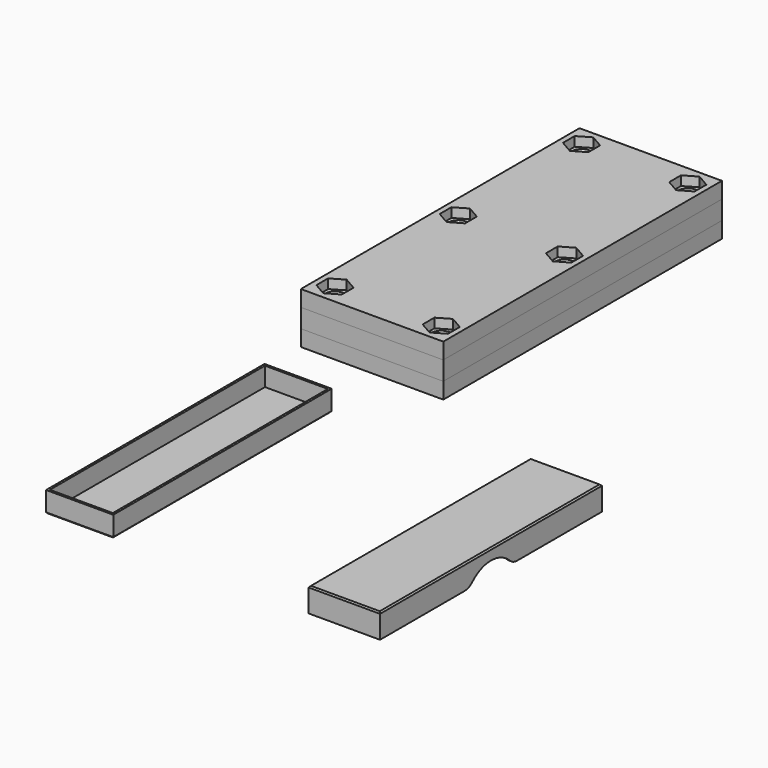
from build123d import *

# Parameters (mm, degrees)
PAD_DEPTH                = 0.8
SKETCH001_W              = 25
SKETCH001_H              = 101.6
SKETCH001_W_2            = 23.4
SKETCH001_H_2            = 100
PAD001_DEPTH             = 7
CHAMFER001_SIZE          = 0.5
SKETCH002_W              = 26.6
SKETCH002_H              = 103.2
SKETCH002_W_2            = 25
SKETCH002_H_2            = 101.6
PAD002_DEPTH             = 8.2
SKETCH003_W              = 26.6
SKETCH003_H              = 103.2
PAD003_DEPTH             = 0.8
POCKET_DEPTH             = 30
FILLET_R                 = 5
CHAMFER_SIZE             = 0.5
SKETCH005_W              = 53
SKETCH005_H              = 129.6
SKETCH005_W_2            = 25
SKETCH005_H_2            = 101.6
PAD004_DEPTH             = 7
SKETCH013_R              = 2.6
POCKET005_DEPTH          = 10
SKETCH006_W              = 53
SKETCH006_H              = 129.6
SKETCH006_W_2            = 23.4
SKETCH006_H_2            = 100
PAD005_DEPTH             = 6
SKETCH007_W              = 23.4
SKETCH007_H              = 100
PAD006_DEPTH             = 13
POCKET001_DEPTH          = 3.5
SKETCH012_R              = 2.6
POCKET004_DEPTH          = 10
CHAMFER003_1_SIZE2       = 1
CHAMFER003_1_SIZE        = 2
CHAMFER003_2_SIZE2       = 1
CHAMFER003_2_SIZE        = 2
CHAMFER003_3_SIZE2       = 1
CHAMFER003_3_SIZE        = 2
CHAMFER003_4_SIZE2       = 1
CHAMFER003_4_SIZE        = 2
CHAMFER003_5_SIZE2       = 1
CHAMFER003_5_SIZE        = 2
CHAMFER003_6_SIZE2       = 1
CHAMFER003_6_SIZE        = 2
SHAPEBINDER004_FACE1_W   = 129.6
SHAPEBINDER004_FACE1_H   = 53
SHAPEBINDER004_FACE1_W_2 = 101.6
SHAPEBINDER004_FACE1_H_2 = 25
PAD007_DEPTH             = 6
SKETCH008_W              = 25
SKETCH008_H              = 101.6
PAD008_DEPTH             = 5.2
CHAMFER002_SIZE          = 0.5
SKETCH010_R              = 4.9
POCKET002_DEPTH          = 3.5
SKETCH014_R              = 2.6
POCKET006_DEPTH          = 100


with BuildPart() as bottom_box_template:
    # Sketch → Pad (new body)
    with BuildSketch(Plane.XY):
        Polygon((0, 0), (25, 0), (25, 100), (25, 101.6), (0, 101.6), align=None)
    extrude(amount=PAD_DEPTH)

    # Sketch001 (on Face5 of Pad) → Pad001 (join)
    with BuildSketch(Plane.XY.offset(0.8)):
        with Locations((12.5, 50.8)):
            Rectangle(SKETCH001_W, SKETCH001_H)
        with Locations((12.5, 50.8)):
            Rectangle(SKETCH001_W_2, SKETCH001_H_2, mode=Mode.SUBTRACT)
    extrude(amount=PAD001_DEPTH)

    # Chamfer001
    chamfer001_edges = [bottom_box_template.edges().sort_by_distance(p)[0] for p in [
        (12.5, 0, 0),
        (25, 50.8, 0),
        (12.5, 101.6, 0),
        (0, 50.8, 0),
    ]]
    chamfer(chamfer001_edges, length=CHAMFER001_SIZE)


with BuildPart() as box_top:
    # Sketch002 (on Face1 of ShapeBinder) → Pad002 (new body)
    with BuildSketch(Plane(origin=(0, 0, 0), x_dir=(1, 0, 0), z_dir=(0, 0, -1))):
        with Locations((12, -50.3)):
            Rectangle(SKETCH002_W, SKETCH002_H)
        with Locations((12, -50.3)):
            Rectangle(SKETCH002_W_2, SKETCH002_H_2, mode=Mode.SUBTRACT)
    extrude(amount=-PAD002_DEPTH)

    # Sketch003 (on Face4 of Pad002) → Pad003 (join)
    with BuildSketch(Plane.XY.offset(8.2)):
        with Locations((12, 50.3)):
            Rectangle(SKETCH003_W, SKETCH003_H)
    extrude(amount=PAD003_DEPTH)

    # Sketch004 (on Face10 of Pad003) → Pocket (cut)
    with BuildSketch(Plane(origin=(-1.3, 0, 0), x_dir=(0, -1, 0), z_dir=(-1, 0, 0))):
        with BuildLine():
            ThreePointArc((-40.3, 0), (-50.3, 5), (-60.3, 0))
            Line((-60.3, 0), (-40.3, 0))
        make_face()
    extrude(amount=-POCKET_DEPTH, mode=Mode.SUBTRACT)

    # Fillet
    fillet_edges = [box_top.edges().sort_by_distance(p)[0] for p in [
        (-0.9, 40.3, 0),
        (-0.9, 60.3, 0),
        (24.9, 60.3, 0),
        (24.9, 40.3, 0),
    ]]
    fillet(fillet_edges, radius=FILLET_R)

    # Chamfer
    chamfer_edges = [box_top.edges().sort_by_distance(p)[0] for p in [
        (12, -1.3, 9),
        (-1.3, 50.3, 9),
        (12, 101.9, 9),
        (25.3, 50.3, 9),
    ]]
    chamfer(chamfer_edges, length=CHAMFER_SIZE)


with BuildPart() as box_top_1:
    # Body001 placement: moved
    add(box_top.part.moved(Location((100, 0, 0))))


with BuildPart() as middle_mold_bottom:
    # Sketch005 (on Face1 of ShapeBinder001) → Pad004 (new body)
    with BuildSketch(Plane.XY.offset(7.8)):
        with Locations((12.5, 50.8)):
            Rectangle(SKETCH005_W, SKETCH005_H)
        with Locations((12.5, 50.8)):
            Rectangle(SKETCH005_W_2, SKETCH005_H_2, mode=Mode.SUBTRACT)
    extrude(amount=-PAD004_DEPTH)

    # Sketch013 (on Face2 of Pad004) → Pocket005 (cut)
    with BuildSketch(Plane.XY.offset(7.8)):
        with Locations((-7.275, 108.14404)):
            Circle(SKETCH013_R)
        with Locations((32.275, 108.14404)):
            Circle(SKETCH013_R)
        with Locations((32.275, 50.8)):
            Circle(SKETCH013_R)
        with Locations((-7.275, 50.8)):
            Circle(SKETCH013_R)
        with Locations((-7.275, -6.54404)):
            Circle(SKETCH013_R)
        with Locations((32.275, -6.54404)):
            Circle(SKETCH013_R)
    extrude(amount=-POCKET005_DEPTH, mode=Mode.SUBTRACT)


with BuildPart() as middle_mold_bottom_1:
    # Body002 placement: moved
    add(middle_mold_bottom.part.moved(Location((0, 150, 0))))


with BuildPart() as top_mold_bottom:
    # Sketch006 (on Face1 of ShapeBinder003) → Pad005 (new body)
    with BuildSketch(Plane.XY.offset(7.8)):
        with Locations((12.5, 50.8)):
            Rectangle(SKETCH006_W, SKETCH006_H)
        with Locations((12.5, 50.8)):
            Rectangle(SKETCH006_W_2, SKETCH006_H_2, mode=Mode.SUBTRACT)
    extrude(amount=PAD005_DEPTH)

    # Sketch007 (on Face10 of Pad005) → Pad006 (join)
    with BuildSketch(Plane.XY.offset(13.8)):
        with Locations((12.5, 50.8)):
            Rectangle(SKETCH007_W, SKETCH007_H)
    extrude(amount=-PAD006_DEPTH)

    # Sketch009 (on Face11 of Pad006) → Pocket001 (cut)
    with BuildSketch(Plane.XY.offset(13.8)):
        Polygon((32.275, 113.6), (27.55, 110.87202), (27.55, 105.41606), (32.275, 102.68808), (37, 105.41606), (37, 110.87202), align=None)
        Polygon((-7.275, 113.6), (-12, 110.87202), (-12, 105.41606), (-7.275, 102.68808), (-2.55, 105.41606), (-2.55, 110.87202), align=None)
        Polygon((32.275, 56.25596), (27.55, 53.52798), (27.55, 48.07202), (32.275, 45.34404), (37, 48.07202), (37, 53.52798), align=None)
        Polygon((-7.275, 56.25596), (-12, 53.52798), (-12, 48.07202), (-7.275, 45.34404), (-2.55, 48.07202), (-2.55, 53.52798), align=None)
        Polygon((-7.275, -1.08808), (-12, -3.81606), (-12, -9.27202), (-7.275, -12), (-2.55, -9.27202), (-2.55, -3.81606), align=None)
        Polygon((32.275, -1.08808), (27.55, -3.81606), (27.55, -9.27202), (32.275, -12), (37, -9.27202), (37, -3.81606), align=None)
    extrude(amount=-POCKET001_DEPTH, mode=Mode.SUBTRACT)

    # Sketch012 (on Face5 of Pocket001) → Pocket004 (cut)
    with BuildSketch(Plane.XY.offset(13.8)):
        with Locations((-7.275, -6.54404)):
            Circle(SKETCH012_R)
        with Locations((32.275, -6.54404)):
            Circle(SKETCH012_R)
        with Locations((32.275, 50.8)):
            Circle(SKETCH012_R)
        with Locations((-7.275, 50.8)):
            Circle(SKETCH012_R)
        with Locations((-7.275, 108.14404)):
            Circle(SKETCH012_R)
        with Locations((32.275, 108.14404)):
            Circle(SKETCH012_R)
    extrude(amount=-POCKET004_DEPTH, mode=Mode.SUBTRACT)

    # Chamfer003 1
    chamfer003_1_edges = [top_mold_bottom.edges().sort_by_distance(p)[0] for p in [
        (29.675, -6.54404, 10.3),
    ]]
    chamfer003_1_side = top_mold_bottom.faces().sort_by_distance((29.675, -6.54404, 9.05))[0]
    chamfer(chamfer003_1_edges, length=CHAMFER003_1_SIZE, length2=CHAMFER003_1_SIZE2, reference=chamfer003_1_side)

    # Chamfer003 2
    chamfer003_2_edges = [top_mold_bottom.edges().sort_by_distance(p)[0] for p in [
        (-9.875, 50.8, 10.3),
    ]]
    chamfer003_2_side = top_mold_bottom.faces().sort_by_distance((-9.875, 50.8, 9.05))[0]
    chamfer(chamfer003_2_edges, length=CHAMFER003_2_SIZE, length2=CHAMFER003_2_SIZE2, reference=chamfer003_2_side)

    # Chamfer003 3
    chamfer003_3_edges = [top_mold_bottom.edges().sort_by_distance(p)[0] for p in [
        (-9.875, 108.14404, 10.3),
    ]]
    chamfer003_3_side = top_mold_bottom.faces().sort_by_distance((-9.875, 108.14404, 9.05))[0]
    chamfer(chamfer003_3_edges, length=CHAMFER003_3_SIZE, length2=CHAMFER003_3_SIZE2, reference=chamfer003_3_side)

    # Chamfer003 4
    chamfer003_4_edges = [top_mold_bottom.edges().sort_by_distance(p)[0] for p in [
        (29.675, 50.8, 10.3),
    ]]
    chamfer003_4_side = top_mold_bottom.faces().sort_by_distance((29.675, 50.8, 9.05))[0]
    chamfer(chamfer003_4_edges, length=CHAMFER003_4_SIZE, length2=CHAMFER003_4_SIZE2, reference=chamfer003_4_side)

    # Chamfer003 5
    chamfer003_5_edges = [top_mold_bottom.edges().sort_by_distance(p)[0] for p in [
        (29.675, 108.14404, 10.3),
    ]]
    chamfer003_5_side = top_mold_bottom.faces().sort_by_distance((29.675, 108.14404, 9.05))[0]
    chamfer(chamfer003_5_edges, length=CHAMFER003_5_SIZE, length2=CHAMFER003_5_SIZE2, reference=chamfer003_5_side)

    # Chamfer003 6
    chamfer003_6_edges = [top_mold_bottom.edges().sort_by_distance(p)[0] for p in [
        (-9.875, -6.54404, 10.3),
    ]]
    chamfer003_6_side = top_mold_bottom.faces().sort_by_distance((-9.875, -6.54404, 9.05))[0]
    chamfer(chamfer003_6_edges, length=CHAMFER003_6_SIZE, length2=CHAMFER003_6_SIZE2, reference=chamfer003_6_side)


with BuildPart() as top_mold_bottom_1:
    # Body003 placement: moved
    add(top_mold_bottom.part.moved(Location((0, 150, 0))))


with BuildPart() as bottom_mold_bottom:
    # ShapeBinder004 Face1 → Pad007 (new)
    with BuildSketch(Plane(origin=(12.5, 50.8, 0.8), x_dir=(0, -1, 0), z_dir=(0, 0, -1))):
        Rectangle(SHAPEBINDER004_FACE1_W, SHAPEBINDER004_FACE1_H)
        Rectangle(SHAPEBINDER004_FACE1_W_2, SHAPEBINDER004_FACE1_H_2, mode=Mode.SUBTRACT)
    extrude(amount=PAD007_DEPTH)

    # Sketch008 (on Face10 of Pad007) → Pad008 (join)
    with BuildSketch(Plane(origin=(0, 0, -5.2), x_dir=(1, 0, 0), z_dir=(0, 0, -1))):
        with Locations((12.5, -50.8)):
            Rectangle(SKETCH008_W, SKETCH008_H)
    extrude(amount=-PAD008_DEPTH)

    # Chamfer002
    chamfer002_edges = [bottom_mold_bottom.edges().sort_by_distance(p)[0] for p in [
        (0, 50.8, 0),
        (12.5, 101.6, 0),
        (25, 50.8, 0),
        (12.5, 0, 0),
    ]]
    chamfer(chamfer002_edges, length=CHAMFER002_SIZE)

    # Sketch010 (on Face15 of Chamfer002) → Pocket002 (cut)
    with BuildSketch(Plane(origin=(0, 0, -5.2), x_dir=(1, 0, 0), z_dir=(0, 0, -1))):
        with Locations((-7.275, -108.14404)):
            Circle(SKETCH010_R)
        with Locations((32.275, -108.14404)):
            Circle(SKETCH010_R)
        with Locations((32.275, -50.8)):
            Circle(SKETCH010_R)
        with Locations((-7.275, -50.8)):
            Circle(SKETCH010_R)
        with Locations((-7.275, 6.54404)):
            Circle(SKETCH010_R)
        with Locations((32.275, 6.54404)):
            Circle(SKETCH010_R)
    extrude(amount=-POCKET002_DEPTH, mode=Mode.SUBTRACT)

    # Sketch014 (on Face15 of Pocket002) → Pocket006 (cut)
    with BuildSketch(Plane(origin=(0, 0, -5.2), x_dir=(1, 0, 0), z_dir=(0, 0, -1))):
        with Locations((-7.275, -108.14404)):
            Circle(SKETCH014_R)
        with Locations((32.275, -108.14404)):
            Circle(SKETCH014_R)
        with Locations((32.275, -50.8)):
            Circle(SKETCH014_R)
        with Locations((-7.275, -50.8)):
            Circle(SKETCH014_R)
        with Locations((-7.275, 6.54404)):
            Circle(SKETCH014_R)
        with Locations((32.275, 6.54404)):
            Circle(SKETCH014_R)
    extrude(amount=-POCKET006_DEPTH, mode=Mode.SUBTRACT)


with BuildPart() as bottom_mold_bottom_1:
    # Body004 placement: moved
    add(bottom_mold_bottom.part.moved(Location((0, 150, 0))))


solid = Compound([bottom_box_template.part, box_top_1.part, middle_mold_bottom_1.part, top_mold_bottom_1.part, bottom_mold_bottom_1.part])
